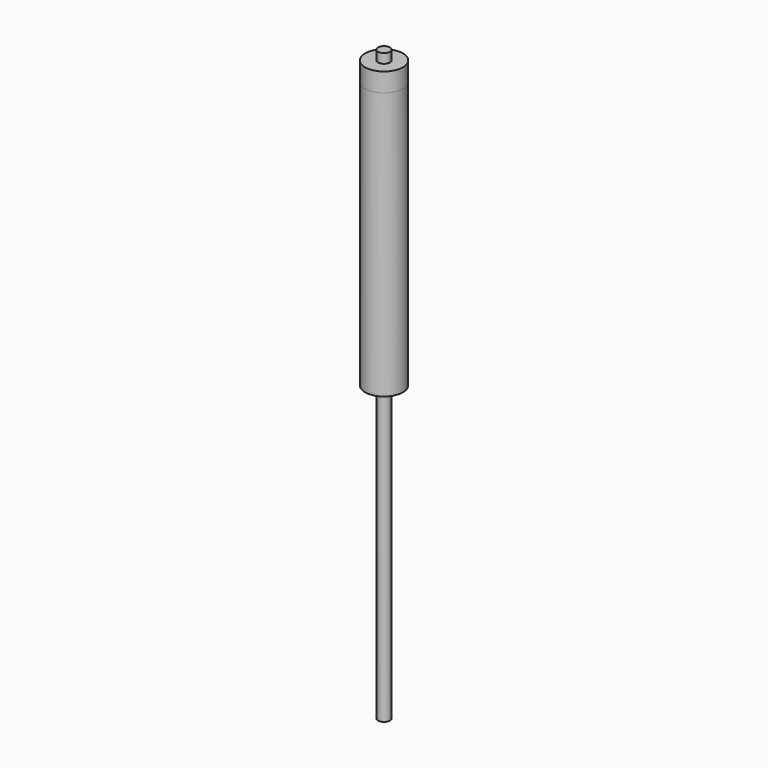
from build123d import *

# Parameters (mm, degrees)
F0_R     = 25.4
F0_R_2   = 23.8125
F1_DEPTH = 358.775
F2_R     = 25.4
F2_R_2   = 7.9375
F3_DEPTH = 25.4
F4_R     = 23.8125
F4_R_2   = 7.9375
F5_DEPTH = 12.7
F6_R     = 7.9375
F7_DEPTH = 396.875
F8_R     = 7.9375
F9_DEPTH = 393.7


with BuildPart() as f1:
    # F0 (on Top) → F1 (new body)
    with BuildSketch(Plane.XY):
        Circle(F0_R)
        Circle(F0_R_2, mode=Mode.SUBTRACT)
    extrude(amount=F1_DEPTH)


with BuildPart() as f3:
    # F2 (on face) → F3 (new body)
    with BuildSketch(Plane.XY.offset(358.775)):
        Circle(F2_R)
        Circle(F2_R_2, mode=Mode.SUBTRACT)
    extrude(amount=F3_DEPTH)


with BuildPart() as f5:
    # F4 (on Top) → F5 (new body)
    with BuildSketch(Plane.XY):
        Circle(F4_R)
        Circle(F4_R_2, mode=Mode.SUBTRACT)
    extrude(amount=F5_DEPTH)


with BuildPart() as f7:
    # F6 (on face) → F7 (new body)
    with BuildSketch(Plane(origin=(0, 0, 0), x_dir=(1, 0, 0), z_dir=(0, 0, -1))):
        Circle(F6_R)
    extrude(amount=-F7_DEPTH)


with BuildPart() as f9:
    # F8 (on face) → F9 (new body)
    with BuildSketch(Plane(origin=(0, 0, 0), x_dir=(1, 0, 0), z_dir=(0, 0, -1))):
        Circle(F8_R)
    extrude(amount=F9_DEPTH)


solid = Compound([f1.part, f3.part, f5.part, f7.part, f9.part])
